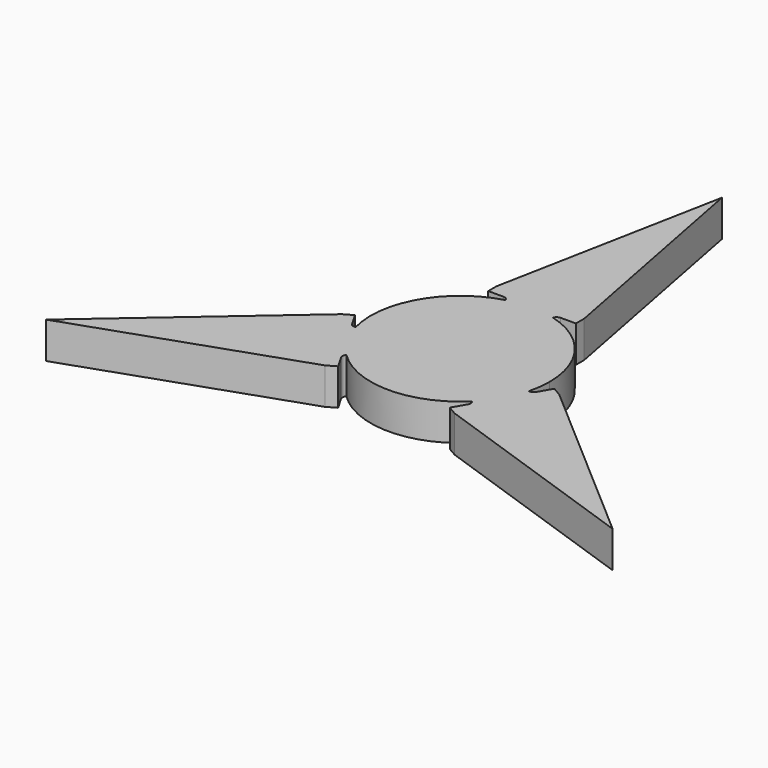
from build123d import *

# Parameters (mm, degrees)
F0_R     = 10.9
F1_DEPTH = 7


with BuildPart() as f1:
    # F0 (on Top) → F1 (new body)
    with BuildSketch(Plane.XY):
        with BuildLine():
            Line((-8.404959, 17.224269), (-5.49864, 17.224269))
            ThreePointArc((-5.49864, 17.224269), (-4.918312, 17.038652), (-4.553421, 16.550707))
            ThreePointArc((-4.553421, 16.550707), (0, 17.165651), (4.553421, 16.550707))
            ThreePointArc((4.553421, 16.550707), (4.918312, 17.038652), (5.49864, 17.224269))
            Line((5.49864, 17.224269), (8.404959, 17.224269))
            Line((8.404959, 17.224269), (8.404959, 19.220643))
            Line((8.404959, 19.220643), (0, 62.743999))
            Line((0, 62.743999), (-8.404959, 19.220643))
            Line((-8.404959, 19.220643), (-8.404959, 17.224269))
        make_face()
        Polygon((6.293118, 24.386719), (3.146559, 18.936719), (-3.146559, 18.936719), (-6.293118, 24.386719), (-3.146559, 29.836719), (3.146559, 29.836719), align=None, mode=Mode.SUBTRACT)
        with BuildLine():
            ThreePointArc((4.553421, 16.550707), (0, 17.165651), (-4.553421, 16.550707))
            ThreePointArc((-4.553421, 16.550707), (-14.86589, 8.582825), (-16.610044, -4.331975))
            ThreePointArc((-16.610044, -4.331975), (-14.86589, -8.582825), (-12.056622, -12.218732))
            ThreePointArc((-12.056622, -12.218732), (0, -17.165651), (12.056622, -12.218732))
            ThreePointArc((12.056622, -12.218732), (14.86589, -8.582825), (16.610044, -4.331975))
            ThreePointArc((16.610044, -4.331975), (17.026182, -2.18373), (17.165651, 0))
            ThreePointArc((17.165651, 0), (13.653241, 10.404257), (4.553421, 16.550707))
        make_face()
        Circle(F0_R, mode=Mode.SUBTRACT)
        with BuildLine():
            ThreePointArc((-12.056622, -12.218732), (-14.86589, -8.582825), (-16.610044, -4.331975))
            ThreePointArc((-16.610044, -4.331975), (-17.215061, -4.259943), (-17.665974, -3.850173))
            Line((-17.665974, -3.850173), (-19.119134, -1.333226))
            Line((-19.119134, -1.333226), (-20.848044, -2.331413))
            Line((-20.848044, -2.331413), (-54.337897, -31.372))
            Line((-54.337897, -31.372), (-12.443085, -16.889229))
            Line((-12.443085, -16.889229), (-10.714175, -15.891042))
            Line((-10.714175, -15.891042), (-12.167334, -13.374096))
            ThreePointArc((-12.167334, -13.374096), (-12.296749, -12.778709), (-12.056622, -12.218732))
        make_face()
        Polygon((-24.266077, -17.643359), (-27.412636, -12.193359), (-24.266077, -6.743359), (-17.972959, -6.743359), (-14.8264, -12.193359), (-17.972959, -17.643359), align=None, mode=Mode.SUBTRACT)
        with BuildLine():
            ThreePointArc((17.665974, -3.850173), (17.215061, -4.259943), (16.610044, -4.331975))
            ThreePointArc((16.610044, -4.331975), (14.86589, -8.582825), (12.056622, -12.218732))
            ThreePointArc((12.056622, -12.218732), (12.296749, -12.778709), (12.167334, -13.374096))
            Line((12.167334, -13.374096), (10.714175, -15.891042))
            Line((10.714175, -15.891042), (12.443085, -16.889229))
            Line((12.443085, -16.889229), (54.337897, -31.372))
            Line((54.337897, -31.372), (20.848044, -2.331413))
            Line((20.848044, -2.331413), (19.119134, -1.333226))
            Line((19.119134, -1.333226), (17.665974, -3.850173))
        make_face()
        Polygon((27.412636, -12.193359), (24.266077, -17.643359), (17.972959, -17.643359), (14.8264, -12.193359), (17.972959, -6.743359), (24.266077, -6.743359), align=None, mode=Mode.SUBTRACT)
        Polygon((-3.146559, 18.936719), (3.146559, 18.936719), (6.293118, 24.386719), (3.146559, 29.836719), (-3.146559, 29.836719), (-6.293118, 24.386719), align=None)
        Polygon((-24.266077, -6.743359), (-27.412636, -12.193359), (-24.266077, -17.643359), (-17.972959, -17.643359), (-14.8264, -12.193359), (-17.972959, -6.743359), align=None)
        Circle(F0_R)
        Polygon((17.972959, -17.643359), (24.266077, -17.643359), (27.412636, -12.193359), (24.266077, -6.743359), (17.972959, -6.743359), (14.8264, -12.193359), align=None)
    extrude(amount=F1_DEPTH)


solid = f1.part
